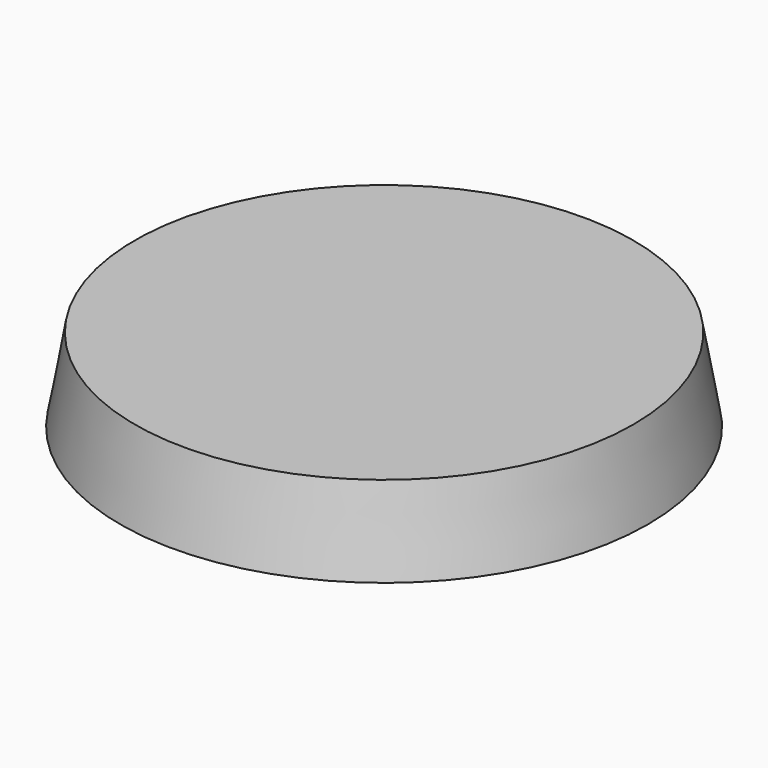
from build123d import *

# Parameters (mm, degrees)
F0_R     = 30
F1_DEPTH = 10
F1_TAPER = -10
F2_W     = 2.1028475723
F2_H     = 19.7035602002
F3_DEPTH = 1


with BuildPart() as f1:
    # F0 (on Top) → F1 (new body)
    with BuildSketch(Plane.XY):
        Circle(F0_R)
    extrude(amount=-F1_DEPTH, taper=F1_TAPER)

    # F2 (on face) → F3 (cut)
    with BuildSketch(Plane(origin=(0, 0, -10), x_dir=(1, 0, 0), z_dir=(0, 0, -1))):
        with BuildLine():
            Line((-7.5578459027, 9.4247056386), (-13.6717004795, 9.4247056386))
            Line((-13.6717004795, 9.4247056386), (-13.6717004795, 7.5547243611))
            Line((-13.6717004795, 7.5547243611), (-9.6522249335, 7.5547243611))
            Line((-9.6522249335, 7.5547243611), (-9.6522249335, 2.0195797797))
            add(Edge.make_bspline(
                [(-13.3055778294, 1.5865314839), (-11.4355965519, 1.5865314839), (-9.6522249335, 2.0195797797)],
                knots=[0, 0, 0, 1, 1, 1], degree=2))
            add(Edge.make_bspline(
                [(-18.5277465969, 3.4683231694), (-16.7502801827, 1.5865314839), (-13.3055778294, 1.5865314839)],
                knots=[0, 0, 0, 1, 1, 1], degree=2))
            add(Edge.make_bspline(
                [(-20.3052130112, 8.9916573428), (-20.3052130112, 5.350114855), (-18.5277465969, 3.4683231694)],
                knots=[0, 0, 0, 1, 1, 1], degree=2))
            add(Edge.make_bspline(
                [(-18.4588525499, 14.4185398502), (-20.3052130112, 12.4639173149), (-20.3052130112, 8.9916573428)],
                knots=[0, 0, 0, 1, 1, 1], degree=2))
            add(Edge.make_bspline(
                [(-13.3291986455, 16.3731623855), (-16.6124920885, 16.3731623855), (-18.4588525499, 14.4185398502)],
                knots=[0, 0, 0, 1, 1, 1], degree=2))
            add(Edge.make_bspline(
                [(-8.6404666423, 15.3417200809), (-11.0773475071, 16.3731623855), (-13.3291986455, 16.3731623855)],
                knots=[0, 0, 0, 1, 1, 1], degree=2))
            Line((-8.6404666423, 15.3417200809), (-7.8294852883, 17.1880805422))
            add(Edge.make_bspline(
                [(-13.1953473541, 18.243143663), (-10.3136077854, 18.243143663), (-7.8294852883, 17.1880805422)],
                knots=[0, 0, 0, 1, 1, 1], degree=2))
            add(Edge.make_bspline(
                [(-18.1498135388, 17.1309969032), (-16.0337820932, 18.243143663), (-13.1953473541, 18.243143663)],
                knots=[0, 0, 0, 1, 1, 1], degree=2))
            add(Edge.make_bspline(
                [(-21.3917705535, 13.9087239019), (-20.2658449844, 16.0188501435), (-18.1498135388, 17.1309969032)],
                knots=[0, 0, 0, 1, 1, 1], degree=2))
            add(Edge.make_bspline(
                [(-22.5176961227, 8.9916573428), (-22.5176961227, 11.7985976603), (-21.3917705535, 13.9087239019)],
                knots=[0, 0, 0, 1, 1, 1], degree=2))
            add(Edge.make_bspline(
                [(-20.2422241682, 2.1829570913), (-22.5176961227, 4.6139327521), (-22.5176961227, 8.9916573428)],
                knots=[0, 0, 0, 1, 1, 1], degree=2))
            add(Edge.make_bspline(
                [(-13.8842878247, -0.2480185694), (-17.9667522137, -0.2480185694), (-20.2422241682, 2.1829570913)],
                knots=[0, 0, 0, 1, 1, 1], degree=2))
            add(Edge.make_bspline(
                [(-13.3237094976, -0.242976389), (-13.5989564807, -0.2480185694), (-13.8842878247, -0.2480185694)],
                knots=[0.8532835249, 0.8532835249, 0.8532835249, 1, 1, 1], degree=2))
            Line((-13.3237094976, -0.242976389), (-13.3237094976, -0.1580174476))
            Line((-13.3237094976, -0.1580174476), (-11.6533065172, -0.1580174476))
            add(Edge.make_bspline(
                [(-10.4632062876, -0.0137788094), (-11.0244072641, -0.1028226977), (-11.6533065172, -0.1580174476)],
                knots=[0, 0, 0, 0.3801399398, 0.3801399398, 0.3801399398], degree=2))
            add(Edge.make_bspline(
                [(-7.5578459027, 0.6771300626), (-8.986905279, 0.2204609506), (-10.4632062876, -0.0137788094)],
                knots=[0, 0, 0, 1, 1, 1], degree=2))
            Line((-7.5578459027, 0.6771300626), (-7.5578459027, 9.4247056386))
        make_face()
        with BuildLine():
            Line((-11.1722411722, -0.1580174476), (-11.6533065172, -0.1580174476))
            add(Edge.make_bspline(
                [(-11.6533065172, -0.1580174476), (-12.4360699581, -0.2267159429), (-13.3237094976, -0.242976389)],
                knots=[0.3801399398, 0.3801399398, 0.3801399398, 0.8532835249, 0.8532835249, 0.8532835249], degree=2))
            Line((-13.3237094976, -0.242976389), (-13.3237094976, -18.6703691965))
            add(Edge.make_bspline(
                [(-13.9760379352, -20.8603289514), (-13.3237094976, -20.100629684), (-13.3237094976, -18.6703691965)],
                knots=[0, 0, 0, 1, 1, 1], degree=2))
            add(Edge.make_bspline(
                [(-15.884402495, -21.6200282189), (-14.6283663729, -21.6200282189), (-13.9760379352, -20.8603289514)],
                knots=[0, 0, 0, 1, 1, 1], degree=2))
            add(Edge.make_bspline(
                [(-17.75630149, -21.3688209945), (-16.8568175573, -21.6200282189), (-15.884402495, -21.6200282189)],
                knots=[0, 0, 0, 1, 1, 1], degree=2))
            Line((-17.75630149, -21.3688209945), (-17.75630149, -23.2042544246))
            add(Edge.make_bspline(
                [(-15.884402495, -23.5445996964), (-17.0715592169, -23.5445996964), (-17.75630149, -23.2042544246)],
                knots=[0, 0, 0, 1, 1, 1], degree=2))
            add(Edge.make_bspline(
                [(-12.3877600001, -22.2217100387), (-13.603278828, -23.5445996964), (-15.884402495, -23.5445996964)],
                knots=[0, 0, 0, 1, 1, 1], degree=2))
            add(Edge.make_bspline(
                [(-11.1722411722, -18.4920931018), (-11.1722411722, -20.898820381), (-12.3877600001, -22.2217100387)],
                knots=[0, 0, 0, 1, 1, 1], degree=2))
            Line((-11.1722411722, -18.4920931018), (-11.1722411722, -0.1580174476))
        make_face()
        with BuildLine():
            add(Edge.make_bspline(
                [(-11.6533065172, -0.1580174476), (-12.4360699581, -0.2267159429), (-13.3237094976, -0.242976389)],
                knots=[0.3801399398, 0.3801399398, 0.3801399398, 0.8532835249, 0.8532835249, 0.8532835249], degree=2))
            Line((-11.6533065172, -0.1580174476), (-13.3237094976, -0.1580174476))
            Line((-13.3237094976, -0.1580174476), (-13.3237094976, -0.242976389))
        make_face()
        with BuildLine():
            add(Edge.make_bspline(
                [(8.0870079852, 6.7555534151), (8.0870079852, 3.4565127614), (6.4276456516, 1.604247096)],
                knots=[0, 0, 0, 1, 1, 1], degree=2))
            add(Edge.make_bspline(
                [(6.4197720462, 11.847807694), (8.0870079852, 9.9640476071), (8.0870079852, 6.7555534151)],
                knots=[0, 0, 0, 1, 1, 1], degree=2))
            add(Edge.make_bspline(
                [(1.9259117762, 13.7315677809), (4.7525361072, 13.7315677809), (6.4197720462, 11.847807694)],
                knots=[0, 0, 0, 1, 1, 1], degree=2))
            add(Edge.make_bspline(
                [(-2.6525897517, 11.8911125235), (-1.0030694248, 13.7315677809), (1.9259117762, 13.7315677809)],
                knots=[0, 0, 0, 1, 1, 1], degree=2))
            add(Edge.make_bspline(
                [(-4.3021100785, 6.7555534151), (-4.3021100785, 10.0506572662), (-2.6525897517, 11.8911125235)],
                knots=[0, 0, 0, 1, 1, 1], degree=2))
            add(Edge.make_bspline(
                [(-3.5383703568, 3.0392116763), (-4.3021100785, 4.6257431601), (-4.3021100785, 6.7555534151)],
                knots=[0, 0, 0, 1, 1, 1], degree=2))
            add(Edge.make_bspline(
                [(-1.3731288776, 0.6023308115), (-2.774630635, 1.4526801924), (-3.5383703568, 3.0392116763)],
                knots=[0, 0, 0, 1, 1, 1], degree=2))
            add(Edge.make_bspline(
                [(1.839302117, -0.2480185694), (0.0283728799, -0.2480185694), (-1.3731288776, 0.6023308115)],
                knots=[0, 0, 0, 1, 1, 1], degree=2))
            add(Edge.make_bspline(
                [(6.4276456516, 1.604247096), (4.768283318, -0.2480185694), (1.839302117, -0.2480185694)],
                knots=[0, 0, 0, 1, 1, 1], degree=2))
        make_face()
        with BuildLine():
            add(Edge.make_bspline(
                [(-2.1841102316, 6.7555534151), (-2.1841102316, 4.1690740481), (-1.1506995256, 2.8167823243)],
                knots=[0, 0, 0, 1, 1, 1], degree=2))
            add(Edge.make_bspline(
                [(-1.1625099337, 10.6785772952), (-2.1841102316, 9.3617167956), (-2.1841102316, 6.7555534151)],
                knots=[0, 0, 0, 1, 1, 1], degree=2))
            add(Edge.make_bspline(
                [(1.8629229332, 11.9954377948), (-0.1409096358, 11.9954377948), (-1.1625099337, 10.6785772952)],
                knots=[0, 0, 0, 1, 1, 1], degree=2))
            add(Edge.make_bspline(
                [(4.933629031, 10.6608616831), (3.8943131209, 11.9954377948), (1.8629229332, 11.9954377948)],
                knots=[0, 0, 0, 1, 1, 1], degree=2))
            add(Edge.make_bspline(
                [(5.972944941, 6.7555534151), (5.972944941, 9.3262855714), (4.933629031, 10.6608616831)],
                knots=[0, 0, 0, 1, 1, 1], degree=2))
            add(Edge.make_bspline(
                [(4.933629031, 2.8108771203), (5.972944941, 4.1572636401), (5.972944941, 6.7555534151)],
                knots=[0, 0, 0, 1, 1, 1], degree=2))
            add(Edge.make_bspline(
                [(1.8865437493, 1.4644906005), (3.8943131209, 1.4644906005), (4.933629031, 2.8108771203)],
                knots=[0, 0, 0, 1, 1, 1], degree=2))
            add(Edge.make_bspline(
                [(-1.1506995256, 2.8167823243), (-0.1172888196, 1.4644906005), (1.8865437493, 1.4644906005)],
                knots=[0, 0, 0, 1, 1, 1], degree=2))
        make_face(mode=Mode.SUBTRACT)
        with BuildLine():
            Line((20.7359550265, 1.8069924345), (20.8461855018, 1.8069924345))
            Line((20.8461855018, 1.8069924345), (21.1178248874, 0))
            Line((21.1178248874, 0), (22.7791556223, 0))
            Line((22.7791556223, 0), (22.7791556223, 19.1446714789))
            Line((22.7791556223, 19.1446714789), (20.7359550265, 19.1446714789))
            Line((20.7359550265, 19.1446714789), (20.7359550265, 13.6567685298))
            Line((20.7359550265, 13.6567685298), (20.7871334615, 12.7079990816))
            Line((20.7871334615, 12.7079990816), (20.8737431206, 11.7356088173))
            Line((20.8737431206, 11.7356088173), (20.7123342104, 11.7356088173))
            add(Edge.make_bspline(
                [(16.5038921353, 13.7315677809), (19.2478436099, 13.7315677809), (20.7123342104, 11.7356088173)],
                knots=[0, 0, 0, 1, 1, 1], degree=2))
            add(Edge.make_bspline(
                [(12.3938701275, 11.8852073195), (13.8701711361, 13.7315677809), (16.5038921353, 13.7315677809)],
                knots=[0, 0, 0, 1, 1, 1], degree=2))
            add(Edge.make_bspline(
                [(10.9175691189, 6.7043749802), (10.9175691189, 10.0388468582), (12.3938701275, 11.8852073195)],
                knots=[0, 0, 0, 1, 1, 1], degree=2))
            add(Edge.make_bspline(
                [(12.3879649235, 1.5609422664), (10.9175691189, 3.3699031022), (10.9175691189, 6.7043749802)],
                knots=[0, 0, 0, 1, 1, 1], degree=2))
            add(Edge.make_bspline(
                [(15.8231943924, -0.2162346874), (13.6634556552, -0.0082357557), (12.3879649235, 1.5609422664)],
                knots=[0.1325527944, 0.1325527944, 0.1325527944, 1, 1, 1], degree=2))
            Line((15.8231943924, -0.2162346874), (15.820380266, -0.1580174476))
            Line((15.820380266, -0.1580174476), (17.6221264967, -0.1580174476))
            add(Edge.make_bspline(
                [(20.7359550265, 1.8069924345), (19.6184134476, 0.1820433978), (17.6221264967, -0.1580174476)],
                knots=[0, 0, 0, 0.7907252241, 0.7907252241, 0.7907252241], degree=2))
        make_face()
        with BuildLine():
            add(Edge.make_bspline(
                [(16.7637211128, 1.4644906005), (18.8541633409, 1.4644906005), (19.7950591837, 2.6022265777)],
                knots=[0, 0, 0, 1, 1, 1], degree=2))
            add(Edge.make_bspline(
                [(13.9823700127, 2.7813511001), (14.9291710595, 1.4644906005), (16.7637211128, 1.4644906005)],
                knots=[0, 0, 0, 1, 1, 1], degree=2))
            add(Edge.make_bspline(
                [(13.0355689659, 6.680754164), (13.0355689659, 4.0982115997), (13.9823700127, 2.7813511001)],
                knots=[0, 0, 0, 1, 1, 1], degree=2))
            add(Edge.make_bspline(
                [(13.9882752167, 10.6234620575), (13.0355689659, 9.2278655041), (13.0355689659, 6.680754164)],
                knots=[0, 0, 0, 1, 1, 1], degree=2))
            add(Edge.make_bspline(
                [(16.7401002967, 12.019058611), (14.9409814676, 12.019058611), (13.9882752167, 10.6234620575)],
                knots=[0, 0, 0, 1, 1, 1], degree=2))
            add(Edge.make_bspline(
                [(19.7832487756, 10.7947129745), (18.8305425248, 12.019058611), (16.7401002967, 12.019058611)],
                knots=[0, 0, 0, 1, 1, 1], degree=2))
            add(Edge.make_bspline(
                [(20.7359550265, 6.7043749802), (20.7359550265, 9.5703673381), (19.7832487756, 10.7947129745)],
                knots=[0, 0, 0, 1, 1, 1], degree=2))
            Line((20.7359550265, 6.7043749802), (20.7359550265, 6.275263487))
            add(Edge.make_bspline(
                [(19.7950591837, 2.6022265777), (20.7359550265, 3.739962555), (20.7359550265, 6.275263487)],
                knots=[0, 0, 0, 1, 1, 1], degree=2))
        make_face(mode=Mode.SUBTRACT)
        with BuildLine():
            Line((18.4418492048, -0.1580174476), (17.6221264967, -0.1580174476))
            add(Edge.make_bspline(
                [(17.6221264967, -0.1580174476), (17.0937855617, -0.2480185694), (16.5038921353, -0.2480185694)],
                knots=[0.7907252241, 0.7907252241, 0.7907252241, 1, 1, 1], degree=2))
            add(Edge.make_bspline(
                [(16.5038921353, -0.2480185694), (16.1532195546, -0.2480185694), (15.8231943924, -0.2162346874)],
                knots=[0, 0, 0, 0.1325527944, 0.1325527944, 0.1325527944], degree=2))
            Line((15.8231943924, -0.2162346874), (16.4686569742, -13.5692418488))
            Line((16.4686569742, -13.5692418488), (17.797624226, -13.5692418488))
            Line((17.797624226, -13.5692418488), (18.4418492048, -0.1580174476))
        make_face()
        with BuildLine():
            add(Edge.make_bspline(
                [(17.6221264967, -0.1580174476), (17.0937855617, -0.2480185694), (16.5038921353, -0.2480185694)],
                knots=[0.7907252241, 0.7907252241, 0.7907252241, 1, 1, 1], degree=2))
            Line((17.6221264967, -0.1580174476), (15.820380266, -0.1580174476))
            Line((15.820380266, -0.1580174476), (15.8231943924, -0.2162346874))
            add(Edge.make_bspline(
                [(16.5038921353, -0.2480185694), (16.1532195546, -0.2480185694), (15.8231943924, -0.2162346874)],
                knots=[0, 0, 0, 0.1325527944, 0.1325527944, 0.1325527944], degree=2))
        make_face()
        with BuildLine():
            Line((-4.6003360427, -13.7961386966), (-4.6003360427, -4.7931959113))
            Line((-4.6003360427, -4.7931959113), (-6.7274939915, -4.7931959113))
            Line((-6.7274939915, -4.7931959113), (-6.7274939915, -13.8731215557))
            add(Edge.make_bspline(
                [(-5.4694320046, -17.7222645108), (-6.7274939915, -16.5189008711), (-6.7274939915, -13.8731215557)],
                knots=[0, 0, 0, 1, 1, 1], degree=2))
            add(Edge.make_bspline(
                [(-1.6790391263, -18.9256281504), (-4.2113700178, -18.9256281504), (-5.4694320046, -17.7222645108)],
                knots=[0, 0, 0, 1, 1, 1], degree=2))
            add(Edge.make_bspline(
                [(0.9383780831, -18.3806705425), (-0.2082613446, -18.9256281504), (-1.6790391263, -18.9256281504)],
                knots=[0, 0, 0, 1, 1, 1], degree=2))
            add(Edge.make_bspline(
                [(2.7292424895, -16.8106253898), (2.0850175107, -17.8357129347), (0.9383780831, -18.3806705425)],
                knots=[0, 0, 0, 1, 1, 1], degree=2))
            Line((2.7292424895, -16.8106253898), (2.8426909135, -16.8106253898))
            Line((2.8426909135, -16.8106253898), (3.1465706204, -18.6703691965))
            Line((3.1465706204, -18.6703691965), (4.8807108149, -18.6703691965))
            Line((4.8807108149, -18.6703691965), (4.8807108149, -4.7931959113))
            Line((4.8807108149, -4.7931959113), (2.7778632426, -4.7931959113))
            Line((2.7778632426, -4.7931959113), (2.7778632426, -12.0863088787))
            add(Edge.make_bspline(
                [(1.7730343449, -15.9739432633), (2.7778632426, -14.7847606767), (2.7778632426, -12.0863088787)],
                knots=[0, 0, 0, 1, 1, 1], degree=2))
            add(Edge.make_bspline(
                [(-1.4116249842, -17.1631258499), (0.7682054472, -17.1631258499), (1.7730343449, -15.9739432633)],
                knots=[0, 0, 0, 1, 1, 1], degree=2))
            add(Edge.make_bspline(
                [(-3.828481587, -16.3284695881), (-3.0566271313, -17.1631258499), (-1.4116249842, -17.1631258499)],
                knots=[0, 0, 0, 1, 1, 1], degree=2))
            add(Edge.make_bspline(
                [(-4.6003360427, -13.7961386966), (-4.6003360427, -15.4938133263), (-3.828481587, -16.3284695881)],
                knots=[0, 0, 0, 1, 1, 1], degree=2))
        make_face()
        with Locations((10.38903697, -8.8185890964)):
            Rectangle(F2_W, F2_H)
        with BuildLine():
            add(Edge.make_bspline(
                [(15.5934834181, -17.3292467564), (15.5934834181, -15.6072617502), (17.112881953, -15.6072617502)],
                knots=[0, 0, 0, 1, 1, 1], degree=2))
            add(Edge.make_bspline(
                [(16.024992602, -18.6399812258), (15.5934834181, -18.2408858773), (15.5934834181, -17.3292467564)],
                knots=[0, 0, 0, 1, 1, 1], degree=2))
            add(Edge.make_bspline(
                [(17.112881953, -19.0390765743), (16.4565017859, -19.0390765743), (16.024992602, -18.6399812258)],
                knots=[0, 0, 0, 1, 1, 1], degree=2))
            add(Edge.make_bspline(
                [(18.2392627335, -18.589334608), (17.8340897909, -19.0390765743), (17.112881953, -19.0390765743)],
                knots=[0, 0, 0, 1, 1, 1], degree=2))
            add(Edge.make_bspline(
                [(18.6444356762, -17.3292467564), (18.6444356762, -18.1395926417), (18.2392627335, -18.589334608)],
                knots=[0, 0, 0, 1, 1, 1], degree=2))
            add(Edge.make_bspline(
                [(18.2453403277, -16.0489002577), (18.6444356762, -16.4905387652), (18.6444356762, -17.3292467564)],
                knots=[0, 0, 0, 1, 1, 1], degree=2))
            add(Edge.make_bspline(
                [(17.112881953, -15.6072617502), (17.8462449792, -15.6072617502), (18.2453403277, -16.0489002577)],
                knots=[0, 0, 0, 1, 1, 1], degree=2))
        make_face()
    extrude(amount=-F3_DEPTH, mode=Mode.SUBTRACT)


solid = f1.part
